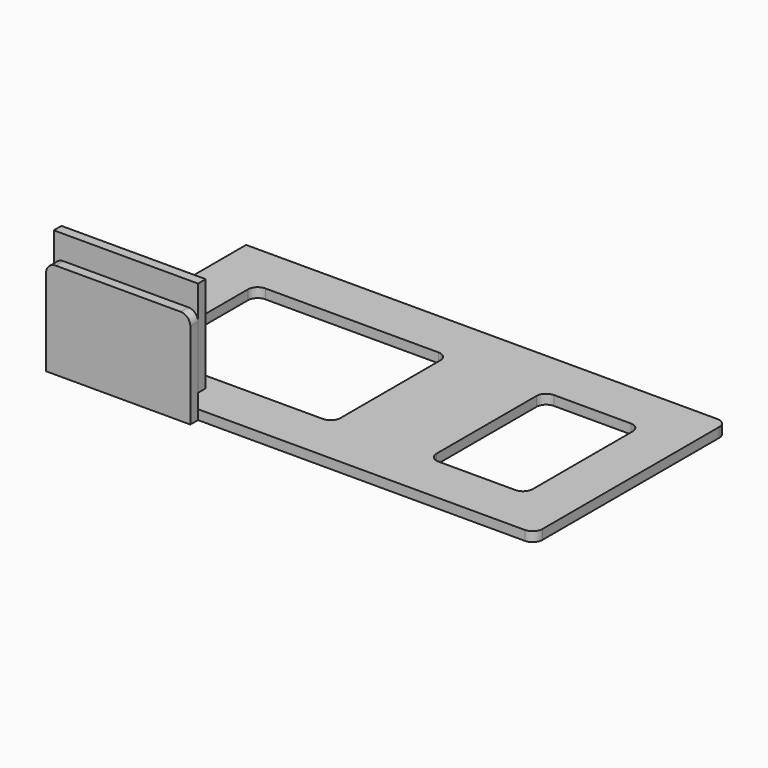
from build123d import *

# Parameters (mm, degrees)
BOX002_W     = 40
BOX002_H     = 30
BOX002_DEPTH = 2
FILLET006_R  = 2
FILLET007_R  = 2
FILLET008_R  = 2
FILLET009_R  = 2
BOX001_W     = 20
BOX001_H     = 30
BOX001_DEPTH = 2
FILLET002_R  = 2
FILLET003_R  = 2
FILLET004_R  = 2
FILLET005_R  = 2
BOX_W        = 100
BOX_H        = 50
BOX_DEPTH    = 2
FILLET_R     = 2
FILLET001_R  = 2
BOX003_W     = 30
BOX003_H     = 2
BOX003_DEPTH = 20
FILLET010_R  = 2
FILLET011_R  = 2
BOX004_W     = 30
BOX004_H     = 2
BOX004_DEPTH = 20


with BuildPart() as fillet009:
    # Box002 → Box002 (new body)
    with BuildSketch(Plane(origin=(10, 10, 4), x_dir=(1, 0, 0), z_dir=(0, 0, 1))):
        with Locations((20, 15)):
            Rectangle(BOX002_W, BOX002_H)
    extrude(amount=BOX002_DEPTH)

    # Fillet006
    fillet006_edges = [fillet009.edges().sort_by_distance(p)[0] for p in [
        (50, 40, 5),
    ]]
    fillet(fillet006_edges, radius=FILLET006_R)

    # Fillet007
    fillet007_edges = [fillet009.edges().sort_by_distance(p)[0] for p in [
        (50, 10, 5),
    ]]
    fillet(fillet007_edges, radius=FILLET007_R)

    # Fillet008
    fillet008_edges = [fillet009.edges().sort_by_distance(p)[0] for p in [
        (10, 10, 5),
    ]]
    fillet(fillet008_edges, radius=FILLET008_R)

    # Fillet009
    fillet009_edges = [fillet009.edges().sort_by_distance(p)[0] for p in [
        (10, 40, 5),
    ]]
    fillet(fillet009_edges, radius=FILLET009_R)


with BuildPart() as fillet009_1:
    # Fillet009 placement: moved
    add(fillet009.part.moved(Location((0, 0, -4))))


with BuildPart() as fillet005:
    # Box001 → Box001 (new body)
    with BuildSketch(Plane(origin=(70, 10, 6), x_dir=(1, 0, 0), z_dir=(0, 0, 1))):
        with Locations((10, 15)):
            Rectangle(BOX001_W, BOX001_H)
    extrude(amount=BOX001_DEPTH)

    # Fillet002
    fillet002_edges = [fillet005.edges().sort_by_distance(p)[0] for p in [
        (90, 10, 7),
    ]]
    fillet(fillet002_edges, radius=FILLET002_R)

    # Fillet003
    fillet003_edges = [fillet005.edges().sort_by_distance(p)[0] for p in [
        (90, 40, 7),
    ]]
    fillet(fillet003_edges, radius=FILLET003_R)

    # Fillet004
    fillet004_edges = [fillet005.edges().sort_by_distance(p)[0] for p in [
        (70, 10, 7),
    ]]
    fillet(fillet004_edges, radius=FILLET004_R)

    # Fillet005
    fillet005_edges = [fillet005.edges().sort_by_distance(p)[0] for p in [
        (70, 40, 7),
    ]]
    fillet(fillet005_edges, radius=FILLET005_R)


with BuildPart() as fillet005_1:
    # Fillet005 placement: moved
    add(fillet005.part.moved(Location((0, 0, -6))))


with BuildPart() as base:
    # Box → Box (new body)
    with BuildSketch(Plane.XY):
        with Locations((50, 25)):
            Rectangle(BOX_W, BOX_H)
    extrude(amount=BOX_DEPTH)

    # Fillet
    fillet_edges = [base.edges().sort_by_distance(p)[0] for p in [
        (100, 0, 1),
    ]]
    fillet(fillet_edges, radius=FILLET_R)

    # Fillet001
    fillet001_edges = [base.edges().sort_by_distance(p)[0] for p in [
        (100, 50, 1),
    ]]
    fillet(fillet001_edges, radius=FILLET001_R)

    # Cut: cut Fillet005
    add(fillet005_1.part, mode=Mode.SUBTRACT)

    # Cut001: cut Fillet009
    add(fillet009_1.part, mode=Mode.SUBTRACT)


with BuildPart() as fillet011:
    # Box003 → Box003 (new body)
    with BuildSketch(Plane.XY):
        with Locations((15, 1)):
            Rectangle(BOX003_W, BOX003_H)
    extrude(amount=BOX003_DEPTH)

    # Fillet010
    fillet010_edges = [fillet011.edges().sort_by_distance(p)[0] for p in [
        (30, 1, 20),
    ]]
    fillet(fillet010_edges, radius=FILLET010_R)

    # Fillet011
    fillet011_edges = [fillet011.edges().sort_by_distance(p)[0] for p in [
        (0, 1, 20),
    ]]
    fillet(fillet011_edges, radius=FILLET011_R)


with BuildPart() as fillet011_1:
    # Fillet011 placement: moved
    add(fillet011.part.moved(Location((0, -2, 0))))


with BuildPart() as cub004:
    # Box004 → Box004 (new body)
    with BuildSketch(Plane.XY.offset(5)):
        with Locations((15, 1)):
            Rectangle(BOX004_W, BOX004_H)
    extrude(amount=BOX004_DEPTH)


solid = Compound([base.part, fillet011_1.part, cub004.part])
